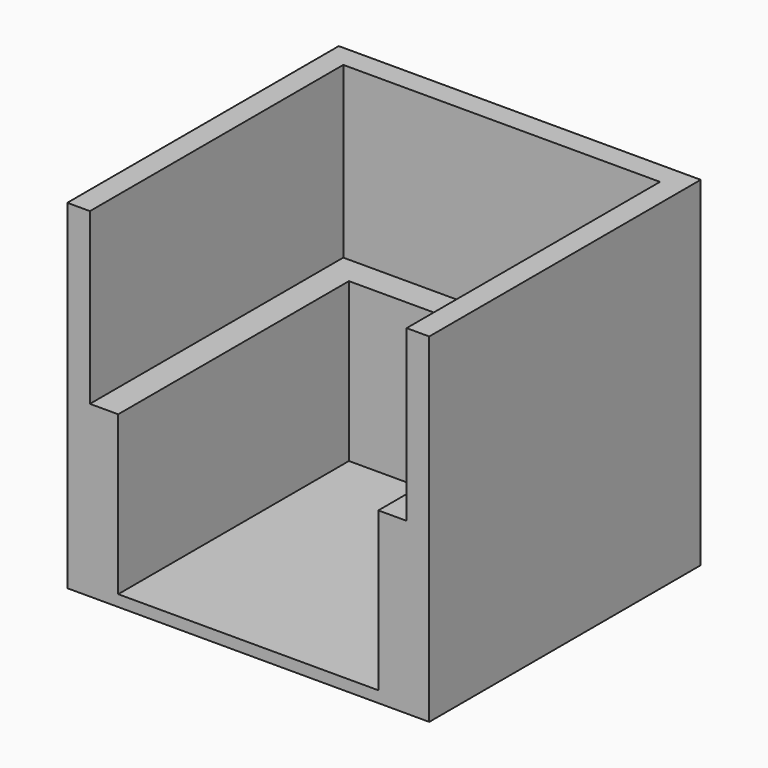
from build123d import *

# Parameters (mm, degrees)
F1_DEPTH = 76.2
F2_W     = 6.35
F2_H     = 71.12
F3_DEPTH = 38.1
F4_W     = 58.42
F4_H     = 71.12
F5_DEPTH = 2.54
F6_W     = 58.42
F6_H     = 6.35
F7_DEPTH = 38.1


with BuildPart() as f1:
    # F0 (on Top) → F1 (new body)
    with BuildSketch(Plane.XY):
        Polygon((-27.812527, 51.794526), (-27.812527, -24.405474), (-22.732527, -24.405474), (-22.732527, 46.714526), (48.387473, 46.714526), (48.387473, -24.405474), (53.467473, -24.405474), (53.467473, 51.794526), align=None)
    extrude(amount=F1_DEPTH)

    # F2 (on Top) → F3 (join)
    with BuildSketch(Plane.XY):
        with Locations((-19.557527, 11.154526)):
            Rectangle(F2_W, F2_H)
        with Locations((45.212473, 11.154526)):
            Rectangle(F2_W, F2_H)
    extrude(amount=F3_DEPTH)

    # F4 (on Top) → F5 (join)
    with BuildSketch(Plane.XY):
        with Locations((12.827473, 11.154526)):
            Rectangle(F4_W, F4_H)
    extrude(amount=F5_DEPTH)

    # F6 (on Top) → F7 (join)
    with BuildSketch(Plane.XY):
        with Locations((12.827473, 43.539526)):
            Rectangle(F6_W, F6_H)
    extrude(amount=F7_DEPTH)


solid = f1.part
